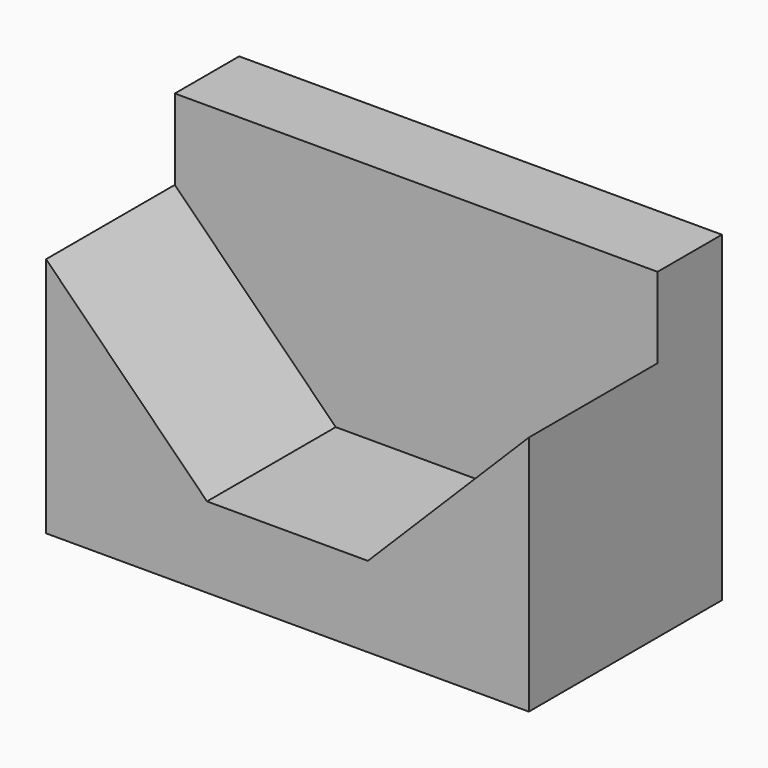
from build123d import *

# Parameters (mm, degrees)
F0_W     = 152.4
F0_H     = 76.2
F1_DEPTH = 101.6
F2_W     = 50.8
F2_H     = 25.4
F3_DEPTH = 152.4
F5_DEPTH = 50.8


with BuildPart() as f1:
    # F0 (on Top) → F1 (new body)
    with BuildSketch(Plane.XY):
        with Locations((1.659449, -35.339441)):
            Rectangle(F0_W, F0_H)
    extrude(amount=F1_DEPTH)

    # F2 (on face) → F3 (cut)
    with BuildSketch(Plane.YZ.offset(77.859449)):
        with Locations((-48.039441, 88.9)):
            Rectangle(F2_W, F2_H)
    extrude(amount=-F3_DEPTH, mode=Mode.SUBTRACT)

    # F4 (on face) → F5 (cut)
    with BuildSketch(Plane.XZ.offset(73.439441)):
        Polygon((77.859449, 76.2), (27.059449, 76.2), (27.059449, 41.245621), (27.059449, 25.4), align=None)
        Polygon((27.059449, 76.2), (-23.740551, 76.2), (-23.740551, 25.4), (27.059449, 25.4), (27.059449, 41.245621), align=None)
        Polygon((-23.740551, 76.2), (-74.540551, 76.2), (-23.740551, 25.4), align=None)
    extrude(amount=-F5_DEPTH, mode=Mode.SUBTRACT)


solid = f1.part
